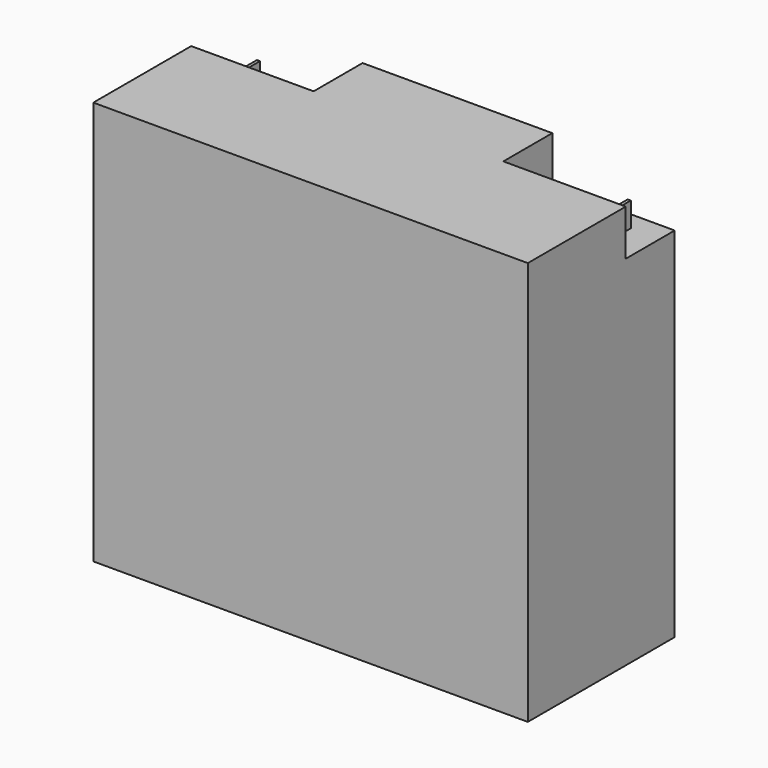
from build123d import *

# Parameters (mm, degrees)
F0_W     = 180.34
F0_H     = 76.2
F1_DEPTH = 167.64
F2_W     = 50.8
F2_H     = 25.4
F3_DEPTH = 19.05
F4_W     = 1.27
F4_H     = 12.7
F5_DEPTH = 10.16
F7_W     = 76.2
F7_H     = 16.51
F8_DEPTH = 29.23794


with BuildPart() as f1:
    # F0 (on Top) → F1 (new body)
    with BuildSketch(Plane.XY):
        Rectangle(F0_W, F0_H)
    extrude(amount=F1_DEPTH)

    # F2 (on face) → F3 (cut)
    with BuildSketch(Plane.XY.offset(167.64)):
        with Locations((64.77, 25.4)):
            Rectangle(F2_W, F2_H)
        with Locations((-64.77, 25.4)):
            Rectangle(F2_W, F2_H)
    extrude(amount=-F3_DEPTH, mode=Mode.SUBTRACT)

    # F4 (on face) → F5 (join)
    with BuildSketch(Plane.XY.offset(148.59)):
        with Locations((77.47, 24.041014)):
            Rectangle(F4_W, F4_H)
        with Locations((-77.47, 25.339247)):
            Rectangle(F4_W, F4_H)
    extrude(amount=F5_DEPTH)

    # F7 (on face) → F8 (cut)
    with BuildSketch(Plane(origin=(0, 38.1, 0), x_dir=(-1, 0, 0), z_dir=(0, 1, 0))):
        with Locations((0, 158.115)):
            Rectangle(F7_W, F7_H)
    extrude(amount=-F8_DEPTH, mode=Mode.SUBTRACT)


solid = f1.part
